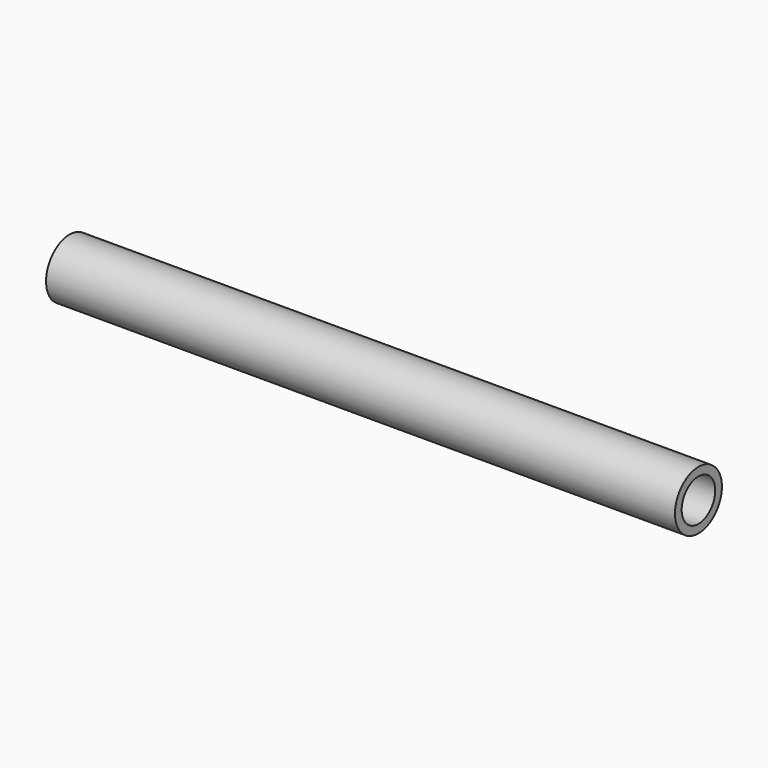
from build123d import *

# Parameters (mm, degrees)
F0_R     = 35
F1_DEPTH = 375
F2_R     = 25
F3_DEPTH = 50
F4_R     = 25
F5_DEPTH = 50


with BuildPart() as f1:
    # F0 (on Right) → F1 (new body, symmetric)
    with BuildSketch(Plane.YZ):
        Circle(F0_R)
    extrude(amount=F1_DEPTH, both=True)

    # F2 (on face) → F3 (cut)
    with BuildSketch(Plane(origin=(-375, 0, 0), x_dir=(0, -1, 0), z_dir=(-1, 0, 0))):
        Circle(F2_R)
    extrude(amount=-F3_DEPTH, mode=Mode.SUBTRACT)

    # F4 (on face) → F5 (cut)
    with BuildSketch(Plane.YZ.offset(375)):
        Circle(F4_R)
    extrude(amount=-F5_DEPTH, mode=Mode.SUBTRACT)


solid = f1.part
